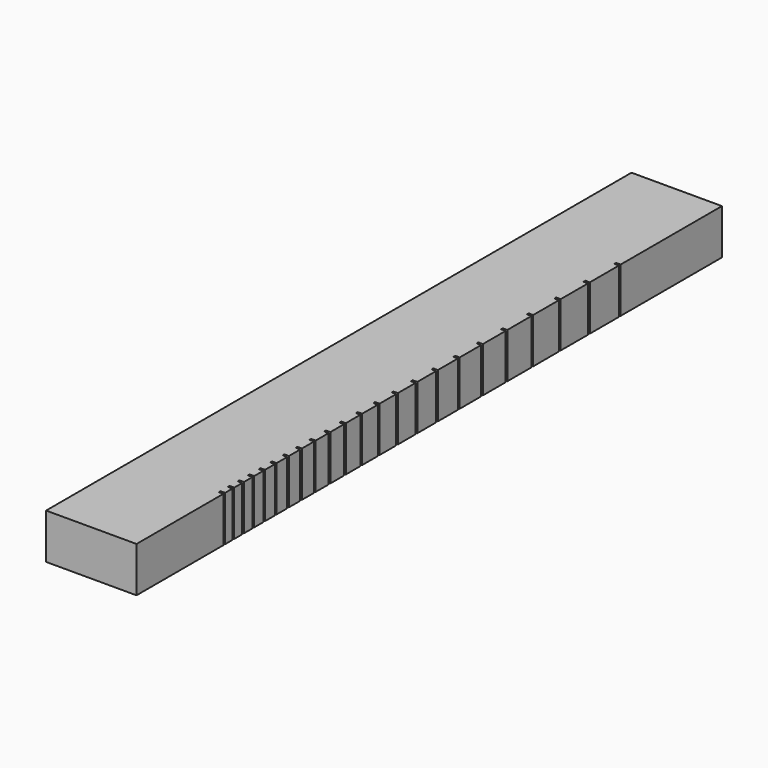
from build123d import *

# Parameters (mm, degrees)
F1_DEPTH = 25
F2_W     = 50
F2_H     = 25
F3_DEPTH = 50
F4_W     = 50
F4_H     = 25
F5_DEPTH = 50


with BuildPart() as f1:
    # F0 (on Top) → F1 (new body)
    with BuildSketch(Plane.XY):
        Polygon((0, -20), (0, 0), (-50, 0), (-50, -304.5), (0, -304.5), (0, -294.5), (-2.5, -294.5), (-2.5, -293.3), (0, -293.3), (0, -288.2), (-2.5, -288.2), (-2.5, -287), (0, -287), (0, -281.5), (-2.5, -281.5), (-2.5, -280.3), (0, -280.3), (0, -274.4), (-2.5, -274.4), (-2.5, -273.2), (0, -273.2), (0, -266.9), (-2.5, -266.9), (-2.5, -265.7), (0, -265.7), (0, -258.9), (-2.5, -258.9), (-2.5, -257.7), (0, -257.7), (0, -250.4), (-2.5, -250.4), (-2.5, -249.2), (0, -249.2), (0, -241.4), (-2.5, -241.4), (-2.5, -240.2), (0, -240.2), (0, -231.9), (-2.5, -231.9), (-2.5, -230.7), (0, -230.7), (0, -221.8), (-2.5, -221.8), (-2.5, -220.6), (0, -220.6), (0, -211.1), (-2.5, -211.1), (-2.5, -209.9), (0, -209.9), (0, -199.8), (-2.5, -199.8), (-2.5, -198.6), (0, -198.6), (0, -187.8), (-2.5, -187.8), (-2.5, -186.6), (0, -186.6), (0, -175.1), (-2.5, -175.1), (-2.5, -173.9), (0, -173.9), (0, -161.7), (-2.5, -161.7), (-2.5, -160.5), (0, -160.5), (0, -147.5), (-2.5, -147.5), (-2.5, -146.3), (0, -146.3), (0, -132.4), (-2.5, -132.4), (-2.5, -131.2), (0, -131.2), (0, -116.4), (-2.5, -116.4), (-2.5, -115.2), (0, -115.2), (0, -99.5), (-2.5, -99.5), (-2.5, -98.3), (0, -98.3), (0, -81.6), (-2.5, -81.6), (-2.5, -80.4), (0, -80.4), (0, -62.6), (-2.5, -62.6), (-2.5, -61.4), (0, -61.4), (0, -42.5), (-2.5, -42.5), (-2.5, -41.3), (0, -41.3), (0, -21.2), (-2.5, -21.2), (-2.5, -20), align=None)
    extrude(amount=F1_DEPTH)

    # F2 (on face) → F3 (join)
    with BuildSketch(Plane.XZ.offset(304.5)):
        with Locations((-25, 12.5)):
            Rectangle(F2_W, F2_H)
    extrude(amount=F3_DEPTH)

    # F4 (on face) → F5 (join)
    with BuildSketch(Plane(origin=(0, 0, 0), x_dir=(-1, 0, 0), z_dir=(0, 1, 0))):
        with Locations((25, 12.5)):
            Rectangle(F4_W, F4_H)
    extrude(amount=F5_DEPTH)


solid = f1.part
